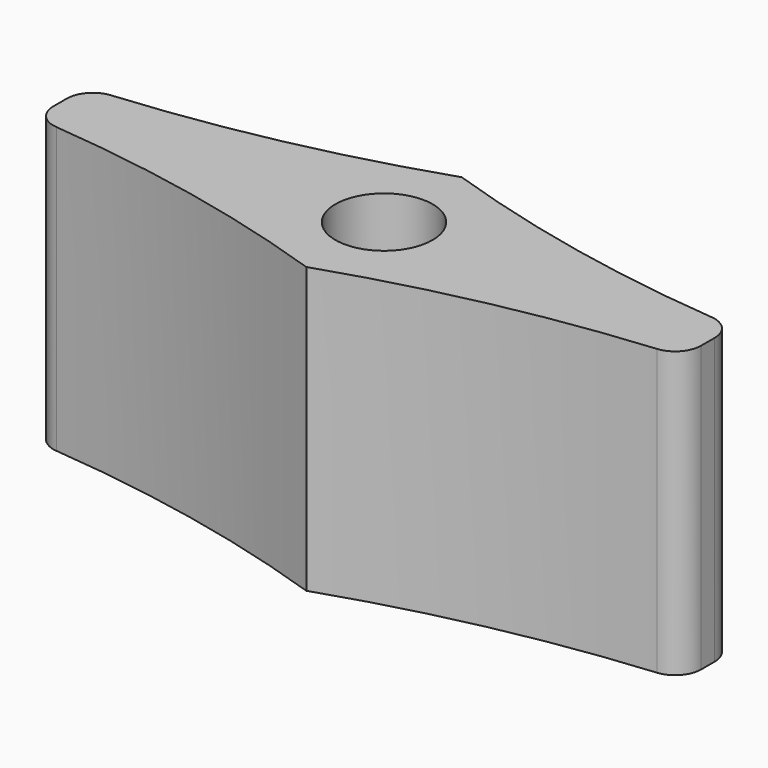
from build123d import *

# Parameters (mm, degrees)
F0_R     = 3.75
F0_R_2   = 3
F1_DEPTH = 22
F2_R     = 3
F3_DEPTH = 20
F2_R_2   = 3.75
F4_DEPTH = 15


with BuildPart() as f1:
    # F0 (on Top) → F1 (new body)
    with BuildSketch(Plane.XY):
        with BuildLine():
            ThreePointArc((23.177466, -2.64573), (24.475624, -2.003632), (25, -0.653619))
            Line((25, -0.653619), (25, 0.653619))
            ThreePointArc((25, 0.653619), (24.475624, 2.003632), (23.177466, 2.64573))
            ThreePointArc((23.177466, 2.64573), (11.445847, 4.390631), (0, 7.5))
            ThreePointArc((0, 7.5), (-11.445847, 4.390631), (-23.177466, 2.64573))
            ThreePointArc((-23.177466, 2.64573), (-24.475624, 2.003632), (-25, 0.653619))
            Line((-25, 0.653619), (-25, -0.653619))
            ThreePointArc((-25, -0.653619), (-24.475624, -2.003632), (-23.177466, -2.64573))
            ThreePointArc((-23.177466, -2.64573), (-11.445847, -4.390631), (0, -7.5))
            ThreePointArc((0, -7.5), (11.445847, -4.390631), (23.177466, -2.64573))
        make_face()
        Circle(F0_R, mode=Mode.SUBTRACT)
        Circle(F0_R)
        Circle(F0_R_2, mode=Mode.SUBTRACT)
        Circle(F0_R_2)
    extrude(amount=F1_DEPTH)

    # F2 (on face) → F3 (cut)
    with BuildSketch(Plane.XY.offset(22)):
        Circle(F2_R)
    extrude(amount=-F3_DEPTH, mode=Mode.SUBTRACT)

    # F2 (on face) → F4 (cut)
    with BuildSketch(Plane.XY.offset(22)):
        Circle(F2_R_2)
        Circle(F2_R, mode=Mode.SUBTRACT)
    extrude(amount=-F4_DEPTH, mode=Mode.SUBTRACT)


solid = f1.part
